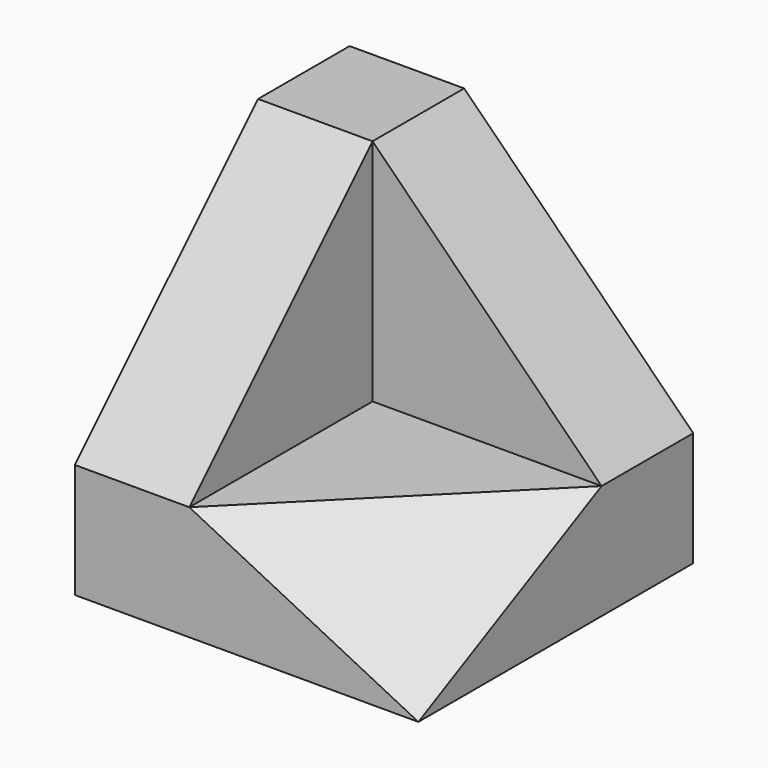
from build123d import *

# Parameters (mm, degrees)
F1_DEPTH = 30
F2_DEPTH = 20
F4_DEPTH = 10.001
F7_DEPTH = 24.4958974278


with BuildPart() as f1:
    # F0 (on Front) → F1 (new body)
    with BuildSketch(Plane.XZ):
        Polygon((0, 30), (0, 0), (30, 0), (30, 10), (10, 10), (10, 30), align=None)
        Polygon((10, 10), (30, 10), (10, 30), align=None)
    extrude(amount=-F1_DEPTH)

    # F0 (on Front) → F2 (cut)
    with BuildSketch(Plane.XZ):
        Polygon((10, 10), (30, 10), (10, 30), align=None)
    extrude(amount=-F2_DEPTH, mode=Mode.SUBTRACT)

    # F3 (on face) → F4 (cut, through all)
    with BuildSketch(Plane.YZ.offset(10)):
        Polygon((0, 10), (20, 30), (0, 30), align=None)
    extrude(amount=-F4_DEPTH, mode=Mode.SUBTRACT)

    # F6 (on 3pt) → F7 (cut, through all)
    with BuildSketch(Plane(origin=(5, -5, 10), x_dir=(0.9128709292, 0.1825741858, -0.3651483717), z_dir=(-0.4082482905, 0.4082482905, -0.8164965809))):
        Polygon((5.4772255751, -4.472135955), (27.3861278753, -22.360679775), (27.3861278753, 0), align=None)
    extrude(amount=-F7_DEPTH, mode=Mode.SUBTRACT)


solid = f1.part
